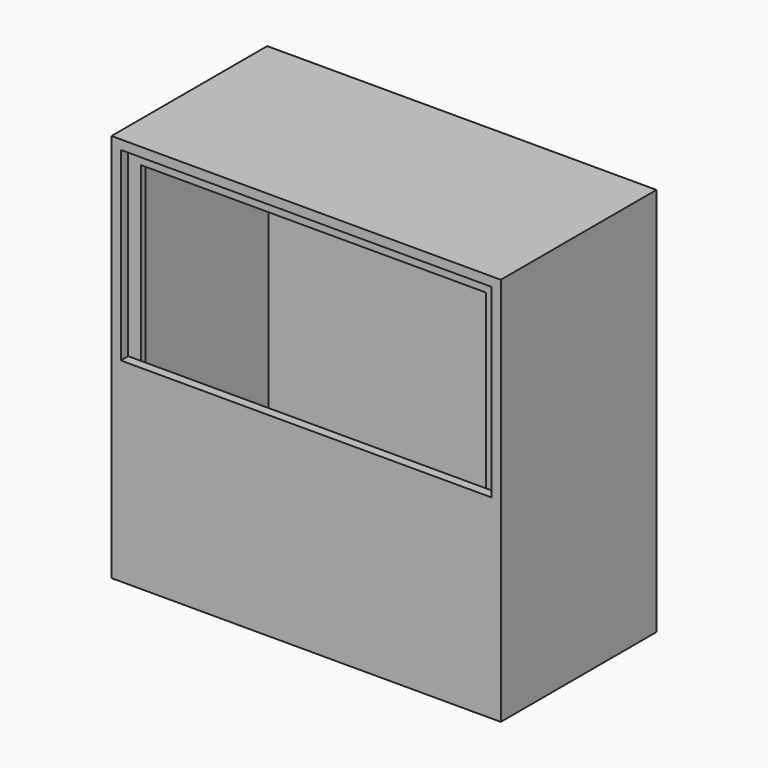
from build123d import *

# Parameters (mm, degrees)
F0_W      = 420
F0_H      = 420
F1_DEPTH  = 105
F2_T      = -6
F3_W      = 6
F3_H      = 408
F4_DEPTH  = 18
F5_W      = 6
F5_H      = 408
F6_DEPTH  = 18
F7_W      = 6
F7_H      = 18
F8_DEPTH  = 372
F9_W      = 6
F9_H      = 18
F10_DEPTH = 372
F11_W     = 408
F11_H     = 408
F11_W_2   = 400
F11_H_2   = 400
F12_DEPTH = 10
F13_W     = 400
F13_H     = 200
F14_DEPTH = 10


with BuildPart() as f1:
    # F0 (on Front) → F1 (new body, symmetric)
    with BuildSketch(Plane.XZ):
        Rectangle(F0_W, F0_H)
    extrude(amount=F1_DEPTH, both=True)

    # F2
    f2_openings = [f1.faces().sort_by_distance(p)[0] for p in [
        (0, -105, 0),
    ]]
    offset(amount=F2_T, openings=f2_openings)

    # F3 (on face) → F4 (join)
    with BuildSketch(Plane.YZ.offset(-204)):
        with Locations((-92, 0)):
            Rectangle(F3_W, F3_H)
    extrude(amount=F4_DEPTH)

    # F5 (on face) → F6 (join)
    with BuildSketch(Plane(origin=(204, 0, 0), x_dir=(0, -1, 0), z_dir=(-1, 0, 0))):
        with Locations((92, 0)):
            Rectangle(F5_W, F5_H)
    extrude(amount=F6_DEPTH)

    # F7 (on face) → F8 (join, through all)
    with BuildSketch(Plane.YZ.offset(-186)):
        with Locations((-92, 195)):
            Rectangle(F7_W, F7_H)
    extrude(amount=F8_DEPTH)

    # F9 (on face) → F10 (join, through all)
    with BuildSketch(Plane.YZ.offset(-186)):
        with Locations((-92, -195)):
            Rectangle(F9_W, F9_H)
    extrude(amount=F10_DEPTH)

    # F11 (on face) → F12 (join)
    with BuildSketch(Plane.XZ.offset(95)):
        Rectangle(F11_W, F11_H)
        Rectangle(F11_W_2, F11_H_2, mode=Mode.SUBTRACT)
    extrude(amount=F12_DEPTH)

    # F13 (on face) → F14 (join)
    with BuildSketch(Plane.XZ.offset(95)):
        with Locations((0, -100)):
            Rectangle(F13_W, F13_H)
    extrude(amount=F14_DEPTH)


solid = f1.part
